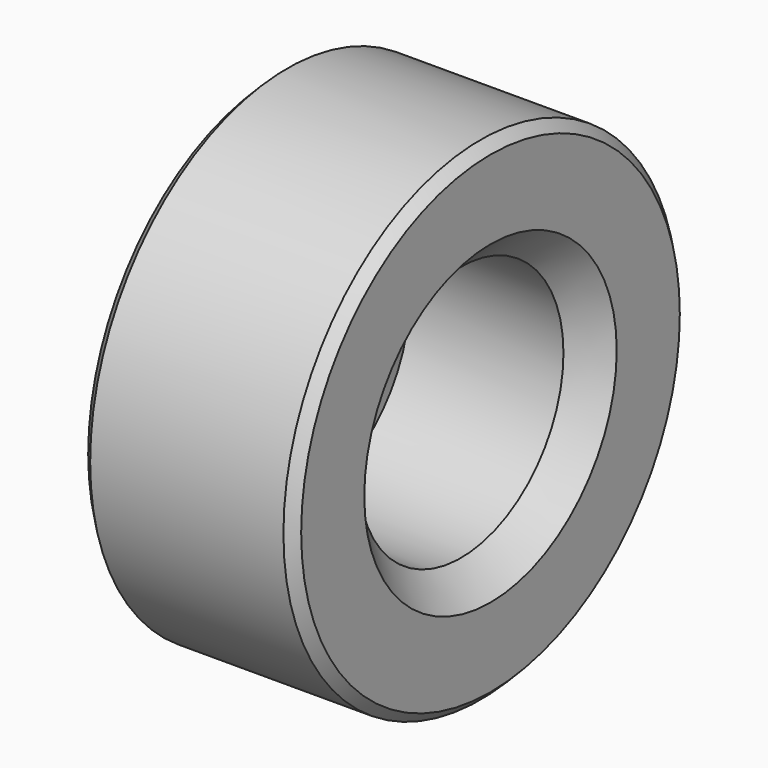
from build123d import *

# Parameters (mm, degrees)
F0_R     = 6.35
F0_R_2   = 3.302
F1_DEPTH = 5.4864
F2_SIZE  = 0.762
F3_SIZE  = 0.254


with BuildPart() as f1:
    # F0 (on Right) → F1 (new body)
    with BuildSketch(Plane.YZ):
        Circle(F0_R)
        Circle(F0_R_2, mode=Mode.SUBTRACT)
    extrude(amount=F1_DEPTH)

    # F2
    f2_edges = [f1.edges().sort_by_distance(p)[0] for p in [
        (5.4864, -3.302, 0),
        (0, -3.302, 0),
    ]]
    chamfer(f2_edges, length=F2_SIZE)

    # F3
    f3_edges = [f1.edges().sort_by_distance(p)[0] for p in [
        (0, -6.35, 0),
        (5.4864, -6.35, 0),
    ]]
    chamfer(f3_edges, length=F3_SIZE)


solid = f1.part
